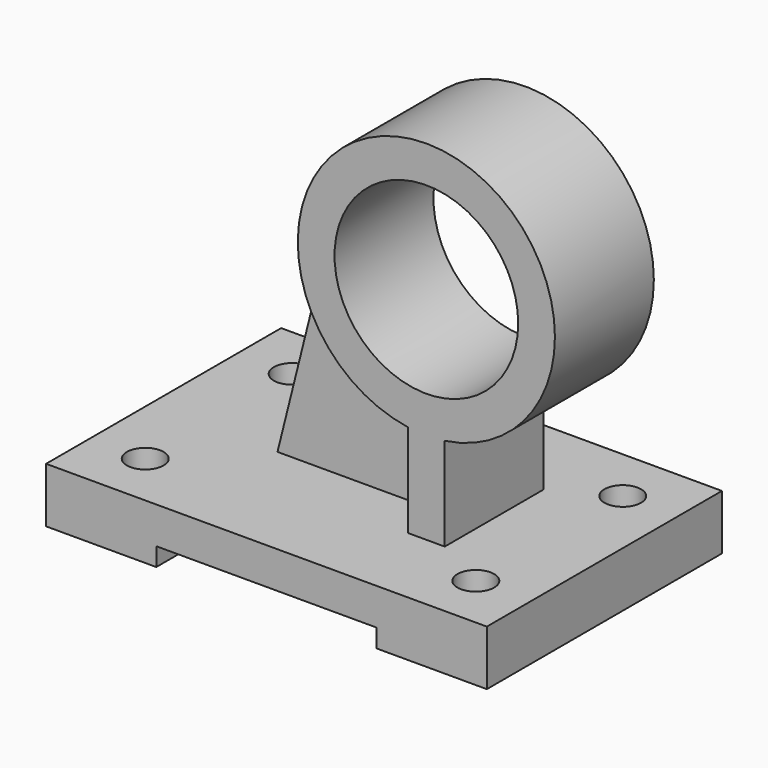
from build123d import *

# Parameters (mm, degrees)
F1_DEPTH  = 80
F2_R      = 5
F3_DEPTH  = 25
F5_DEPTH  = 60
F6_R      = 35
F7_DEPTH  = 33.666907
F8_R      = 25
F9_DEPTH  = 52.6
F11_DEPTH = 25


with BuildPart() as f1:
    # F0 (on Front) → F1 (new body)
    with BuildSketch(Plane.XZ):
        Polygon((120, 0), (0, 0), (0, -15), (30, -15), (30, -10), (90, -10), (90, -15), (120, -15), align=None)
    extrude(amount=F1_DEPTH)

    # F2 (on face) → F3 (cut)
    with BuildSketch(Plane.XY):
        with Locations((15, -15)):
            Circle(F2_R)
        with Locations((15, -65)):
            Circle(F2_R)
        with Locations((105, -65)):
            Circle(F2_R)
        with Locations((105, -15)):
            Circle(F2_R)
    extrude(amount=-F3_DEPTH, mode=Mode.SUBTRACT)

    # F4 (on face) → F5 (join)
    with BuildSketch(Plane.XY):
        Polygon((35, -45), (80, -45), (80, -56.833453), (90, -56.833453), (90, -45), (90, -35), (90, -23.166547), (80, -23.166547), (80, -35), (35, -35), align=None)
    extrude(amount=F5_DEPTH)

    # F6 (on face) → F7 (join, through all)
    with BuildSketch(Plane.XZ.offset(56.833453)):
        with Locations((85, 60)):
            Circle(F6_R)
    extrude(amount=-F7_DEPTH)

    # F8 (on face) → F9 (cut)
    with BuildSketch(Plane.XZ.offset(56.833453)):
        with Locations((85, 60)):
            Circle(F8_R)
    extrude(amount=-F9_DEPTH, mode=Mode.SUBTRACT)

    # F10 (on face) → F11 (cut)
    with BuildSketch(Plane.XZ.offset(45)):
        Polygon((35, 60), (35, 0), (50, 60), align=None)
    extrude(amount=-F11_DEPTH, mode=Mode.SUBTRACT)


solid = f1.part
